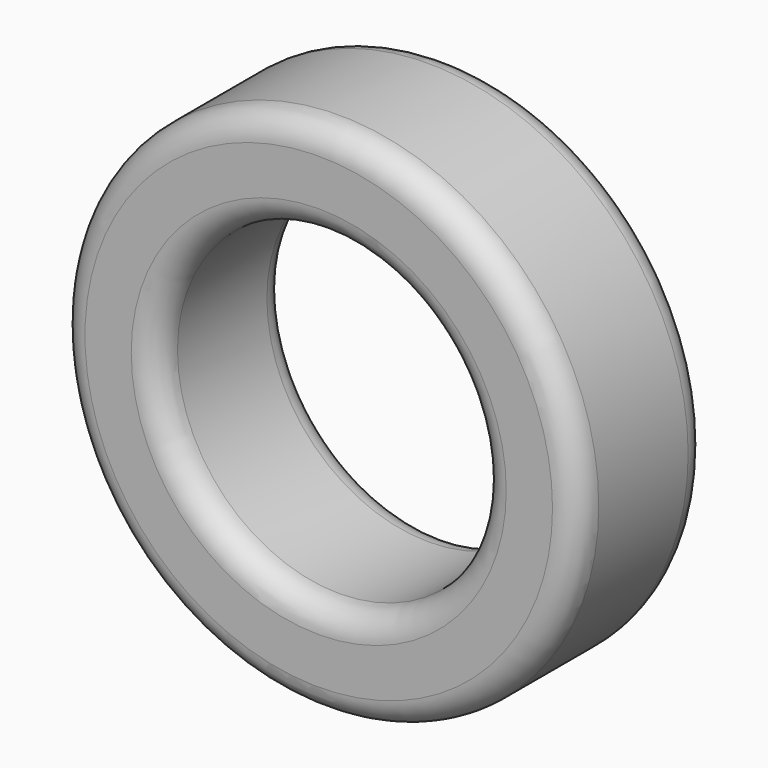
from build123d import *

# Parameters (mm, degrees)
F0_R     = 10.1
F0_R_2   = 6.3
F1_DEPTH = 3.175
F2_R     = 1


with BuildPart() as f1:
    # F0 (on Front) → F1 (new body, symmetric)
    with BuildSketch(Plane.XZ):
        Circle(F0_R)
        Circle(F0_R_2, mode=Mode.SUBTRACT)
    extrude(amount=F1_DEPTH, both=True)

    # F2
    f2_edges = [f1.edges().sort_by_distance(p)[0] for p in [
        (-6.3, -3.175, 0),
        (-10.1, -3.175, 0),
        (-6.3, 3.175, 0),
        (-10.1, 3.175, 0),
    ]]
    fillet(f2_edges, radius=F2_R)


solid = f1.part
